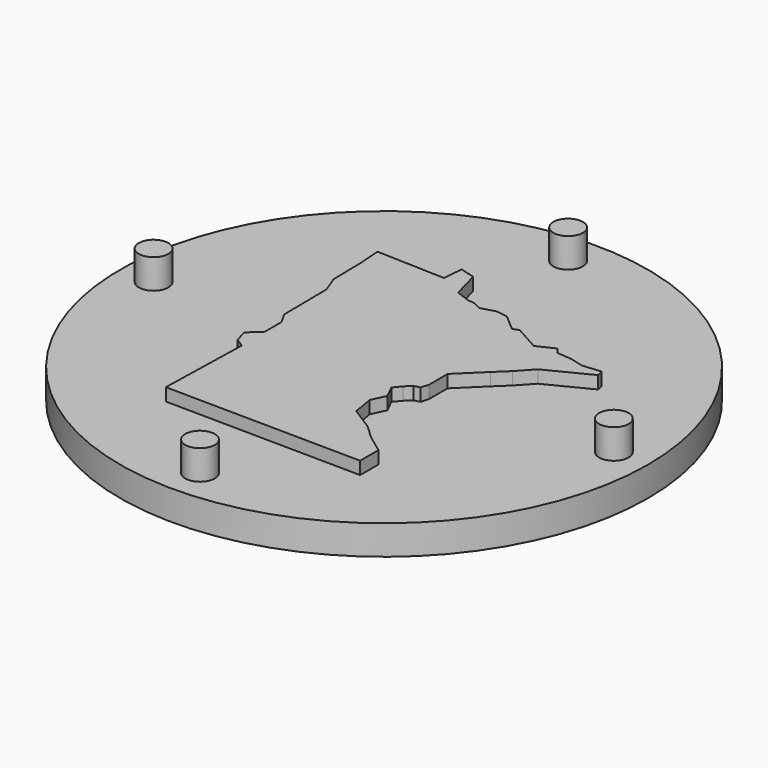
from build123d import *

# Parameters (mm, degrees)
F0_R     = 15.875
F1_DEPTH = 1.778
F3_R     = 0.889
F4_DEPTH = 1.778
F6_DEPTH = 0.762


with BuildPart() as f1:
    # F0 (on Top) → F1 (new body)
    with BuildSketch(Plane.XY):
        Circle(F0_R)
    extrude(amount=-F1_DEPTH)

    # F3 (on face) → F4 (join)
    with BuildSketch(Plane.XY):
        with Locations((0, 13.836063)):
            Circle(F3_R)
        with Locations((-13.862842, 0)):
            Circle(F3_R)
        with Locations((-0.025139, -13.808045)):
            Circle(F3_R)
        with Locations((13.819266, 0)):
            Circle(F3_R)
    extrude(amount=F4_DEPTH)

    # F5 (on face) → F6 (join)
    with BuildSketch(Plane.XY):
        Polygon((-2.453811, 8.900641), (-2.5601, 7.696021), (-6.669981, 7.837741), (-6.563691, 6.455971), (-6.528262, 4.365601), (-6.138531, 3.338131), (-6.103101, 0.114), (-5.713371, -0.55917), (-5.713371, -1.87008), (-6.421971, -2.47239), (-6.209391, -3.251851), (-5.677941, -3.606151), (-5.819661, -9.133232), (5.978531, -9.274952), (5.978531, -7.893181), (4.915631, -7.113722), (4.029881, -6.298832), (2.68354, -5.448511), (2.47096, -4.173031), (2.860691, -3.322711), (2.47096, -2.54325), (2.82526, -2.11809), (3.17956, -1.76379), (3.53386, -1.69293), (3.675581, -1.23234), (3.675581, 0.18486), (5.128211, 1.60206), (5.872241, 2.31066), (6.687131, 3.196411), (9.273522, 4.507321), (9.167232, 4.897051), (8.068902, 4.790761), (7.254011, 5.003341), (6.368261, 5.074201), (6.084821, 5.428501), (5.057351, 4.932481), (3.53386, 5.782801), (3.17956, 5.641081), (2.18752, 6.491401), (1.51435, 6.597691), (0.66403, 6.349681), (0.16801, 6.597691), (-0.25715, 6.633121), (-1.10747, 6.951991), (-1.56806, 8.652632), align=None)
    extrude(amount=F6_DEPTH)


solid = f1.part
